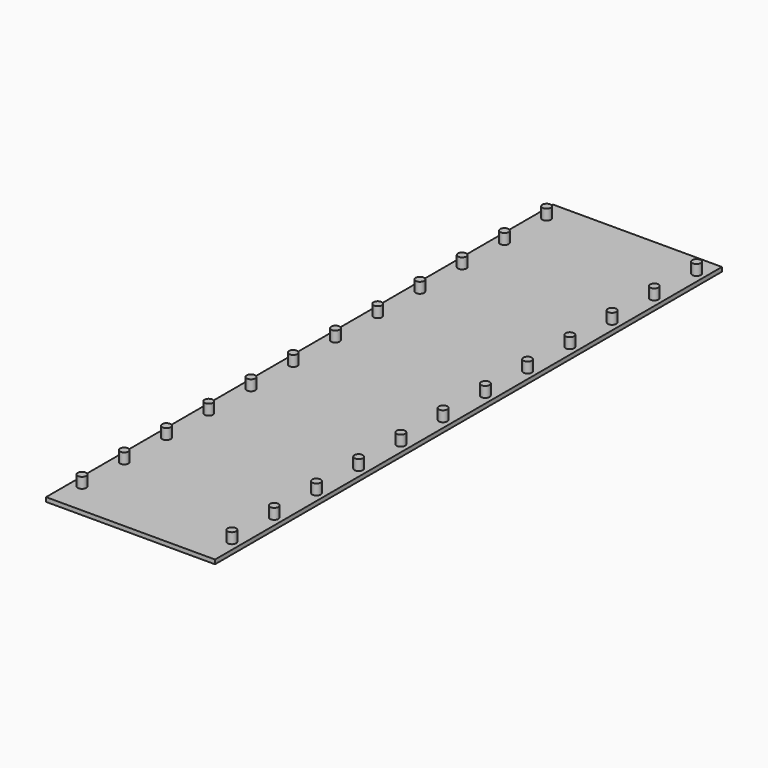
from build123d import *

# Parameters (mm, degrees)
F1_W     = 400
F1_H     = 1500
F2_DEPTH = 10
F0_R     = 10
F3_DEPTH = 25


with BuildPart() as f2:
    # F1 (on Top) → F2 (new body)
    with BuildSketch(Plane.XY):
        with Locations((175, 675)):
            Rectangle(F1_W, F1_H)
    extrude(amount=-F2_DEPTH)

    # F0 (on Top) → F3 (join)
    with BuildSketch(Plane.XY):
        Circle(F0_R)
        with Locations((0, 125)):
            Circle(F0_R)
        with Locations((0, 250)):
            Circle(F0_R)
        with Locations((0, 375)):
            Circle(F0_R)
        with Locations((0, 500)):
            Circle(F0_R)
        with Locations((0, 625)):
            Circle(F0_R)
        with Locations((0, 750)):
            Circle(F0_R)
        with Locations((0, 875)):
            Circle(F0_R)
        with Locations((0, 1000)):
            Circle(F0_R)
        with Locations((0, 1125)):
            Circle(F0_R)
        with Locations((0, 1250)):
            Circle(F0_R)
        with Locations((0, 1375)):
            Circle(F0_R)
        with Locations((355, 0)):
            Circle(F0_R)
        with Locations((355, 125)):
            Circle(F0_R)
        with Locations((355, 250)):
            Circle(F0_R)
        with Locations((355, 375)):
            Circle(F0_R)
        with Locations((355, 500)):
            Circle(F0_R)
        with Locations((355, 625)):
            Circle(F0_R)
        with Locations((355, 750)):
            Circle(F0_R)
        with Locations((355, 875)):
            Circle(F0_R)
        with Locations((355, 1000)):
            Circle(F0_R)
        with Locations((355, 1125)):
            Circle(F0_R)
        with Locations((355, 1250)):
            Circle(F0_R)
        with Locations((355, 1375)):
            Circle(F0_R)
    extrude(amount=F3_DEPTH)


solid = f2.part
